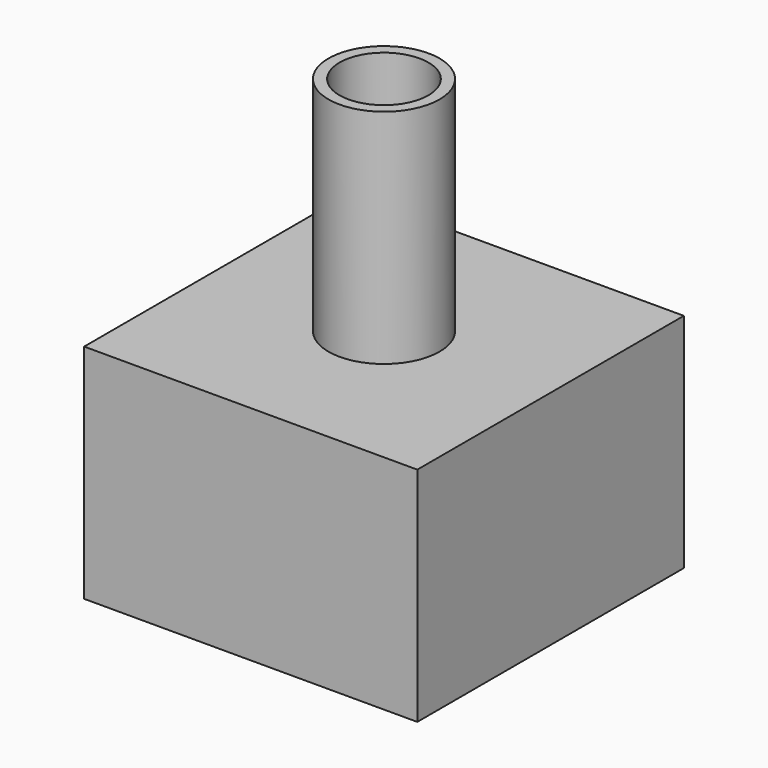
from build123d import *

# Parameters (mm, degrees)
F0_W     = 38.1
F0_H     = 38.1
F1_DEPTH = 25.4
F3_R     = 6.35
F4_DEPTH = 25.4
F7_D     = 10.16


with BuildPart() as f1:
    # F0 (on Top) → F1 (new body)
    with BuildSketch(Plane.XY):
        with Locations((19.05, 19.05)):
            Rectangle(F0_W, F0_H)
    extrude(amount=F1_DEPTH)

    # F3 (on offset) → F4 (join)
    with BuildSketch(Plane.XY.offset(25.4)):
        with Locations((19.05, 19.05)):
            Circle(F3_R)
    extrude(amount=F4_DEPTH)

    # F7 (through all)
    with Locations(Plane.XY.offset(50.8)):
        with Locations((19.05, 19.05)):
            Hole(F7_D / 2)


solid = f1.part
